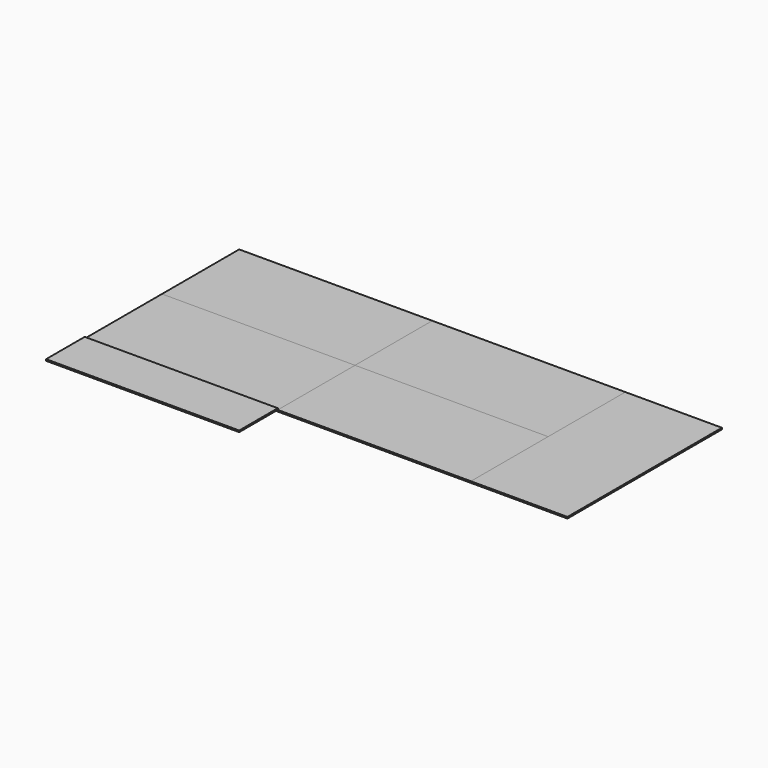
from build123d import *

# Parameters (mm, degrees)
F0_W      = 2438.4
F0_H      = 1219.2
F1_DEPTH  = 19.05
F7_W      = 1219.2
F7_H      = 2438.4
F8_DEPTH  = 19.05
F9_W      = 2438.4
F9_H      = 609.6
F10_DEPTH = 19.05


with BuildPart() as f1:
    # F0 (on Top) → F1 (new body)
    with BuildSketch(Plane.XY):
        with Locations((244.589251, 22.699467)):
            Rectangle(F0_W, F0_H)
    extrude(amount=F1_DEPTH)


with BuildPart() as f2_1:
    # F2: copy of F1
    add(f1.part.moved(Location((0, -1219.2, 0))))


with BuildPart() as f3_1:
    # F3: copy of F2_1
    add(f2_1.part.moved(Location((2438.4, 0, 0))))


with BuildPart() as f4_1:
    # F4: copy of F3_1
    add(f3_1.part.moved(Location((0, 1219.2, 0))))


with BuildPart() as f5_1:
    # F5: copy of F4_1
    add(f4_1.part.moved(Location((2438.4, 0, 0))))


with BuildPart() as f8:
    # F7 (on face) → F8 (new body)
    with BuildSketch(Plane(origin=(0, 0, 0), x_dir=(1, 0, 0), z_dir=(0, 0, -1))):
        with Locations((4511.789251, 586.900533)):
            Rectangle(F7_W, F7_H)
    extrude(amount=-F8_DEPTH)


with BuildPart() as f10:
    # F9 (on face) → F10 (new body)
    with BuildSketch(Plane.XY.offset(19.05)):
        with Locations((244.589251, -2110.900533)):
            Rectangle(F9_W, F9_H)
    extrude(amount=F10_DEPTH)


solid = Compound([f1.part, f2_1.part, f3_1.part, f4_1.part, f8.part, f10.part])
